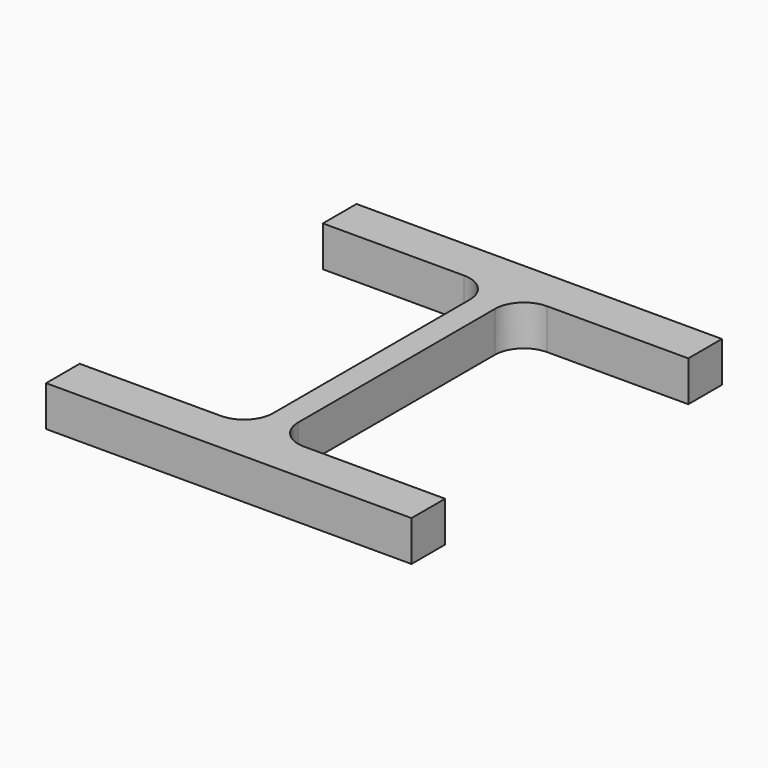
from build123d import *

# Parameters (mm, degrees)
F1_DEPTH = 25


with BuildPart() as f1:
    # F0 (on Top) → F1 (new body)
    with BuildSketch(Plane.XY):
        with BuildLine():
            Line((111.30645, 52.978446), (-114.69355, 52.978446))
            Line((-114.69355, 52.978446), (-114.69355, 26.978446))
            Line((-114.69355, 26.978446), (-27.44355, 26.978446))
            ThreePointArc((-27.44355, 26.978446), (-14.715628, 21.706369), (-9.44355, 8.978446))
            Line((-9.44355, 8.978446), (-9.44355, -143.021554))
            ThreePointArc((-9.44355, -143.021554), (-14.715628, -155.749476), (-27.44355, -161.021554))
            Line((-27.44355, -161.021554), (-114.69355, -161.021554))
            Line((-114.69355, -161.021554), (-114.69355, -187.021554))
            Line((-114.69355, -187.021554), (111.30645, -187.021554))
            Line((111.30645, -187.021554), (111.30645, -161.021554))
            Line((111.30645, -161.021554), (24.05645, -161.021554))
            ThreePointArc((24.05645, -161.021554), (11.328527, -155.749476), (6.05645, -143.021554))
            Line((6.05645, -143.021554), (6.05645, 8.978446))
            ThreePointArc((6.05645, 8.978446), (11.328527, 21.706369), (24.05645, 26.978446))
            Line((24.05645, 26.978446), (111.30645, 26.978446))
            Line((111.30645, 26.978446), (111.30645, 52.978446))
        make_face()
    extrude(amount=F1_DEPTH)


solid = f1.part
